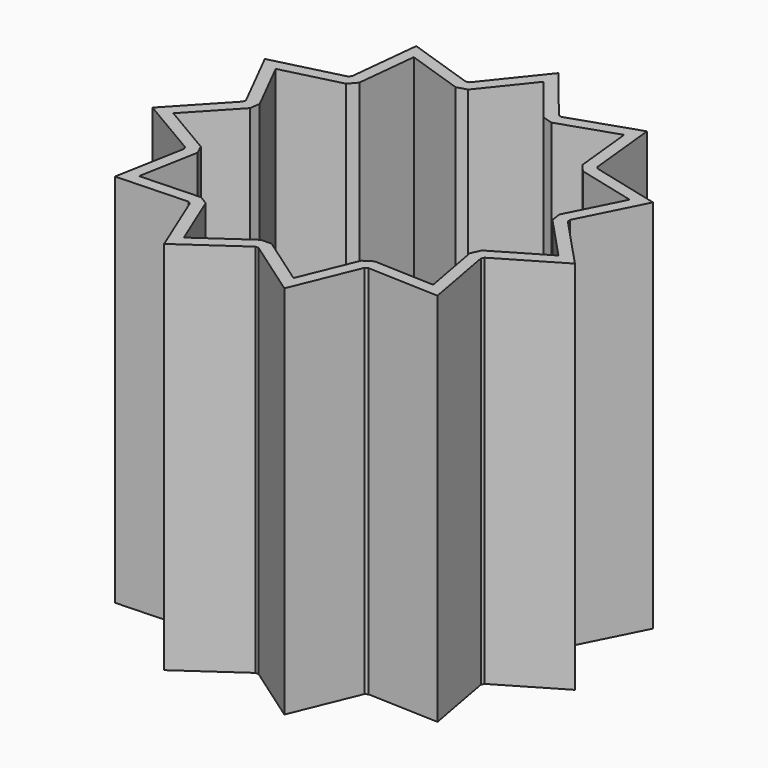
from build123d import *

# Parameters (mm, degrees)
F1_DEPTH = 38.1
F2_T     = -1.1938


with BuildPart() as f1:
    # F0 (on Top) → F1 (new body)
    with BuildSketch(Plane.XY):
        with BuildLine():
            ThreePointArc((15.2011735175, -6.7612197636), (16.2740851173, -3.4559980606), (16.637, 0))
            ThreePointArc((16.637, 0), (16.6002782012, 1.104777192), (16.4902749121, 2.2046773742))
            ThreePointArc((16.4902749121, 2.2046773742), (16.4676593286, 2.3676919644), (16.4434323047, 2.5304748644))
            ThreePointArc((16.4434323047, 2.5304748644), (15.1335475067, 6.9112595713), (12.6805634493, 10.7700083383))
            ThreePointArc((12.6805634493, 10.7700083383), (12.5734056685, 10.8949180306), (12.465017519, 11.0187616024))
            ThreePointArc((12.465017519, 11.0187616024), (8.99464128, 13.9959350257), (4.844862688, 15.9159377523))
            ThreePointArc((4.844862688, 15.9159377523), (4.6871845482, 15.963084602), (4.5290477446, 16.0086693865))
            ThreePointArc((4.5290477446, 16.0086693865), (0, 16.637), (-4.5290477446, 16.0086693865))
            ThreePointArc((-4.5290477446, 16.0086693865), (-4.6871845482, 15.963084602), (-4.844862688, 15.9159377523))
            ThreePointArc((-4.844862688, 15.9159377523), (-8.99464128, 13.9959350257), (-12.465017519, 11.0187616024))
            ThreePointArc((-12.465017519, 11.0187616024), (-12.5734056685, 10.8949180306), (-12.6805634493, 10.7700083383))
            ThreePointArc((-12.6805634493, 10.7700083383), (-15.1335475067, 6.9112595713), (-16.4434323047, 2.5304748644))
            ThreePointArc((-16.4434323047, 2.5304748644), (-16.4676593286, 2.3676919644), (-16.4902749121, 2.2046773742))
            ThreePointArc((-16.4902749121, 2.2046773742), (-16.4676593286, -2.3676919644), (-15.2011735175, -6.7612197636))
            ThreePointArc((-15.2011735175, -6.7612197636), (-15.1335475067, -6.9112595713), (-15.0644406049, -7.0606230788))
            ThreePointArc((-15.0644406049, -7.0606230788), (-12.5734056685, -10.8949180306), (-9.1326495448, -13.9062748891))
            ThreePointArc((-9.1326495448, -13.9062748891), (-8.99464128, -13.9959350257), (-8.855752846, -14.0842255922))
            ThreePointArc((-8.855752846, -14.0842255922), (-4.6871845482, -15.963084602), (-0.1645738698, -16.6361859944))
            ThreePointArc((-0.1645738698, -16.6361859944), (0, -16.637), (0.1645738698, -16.6361859944))
            ThreePointArc((0.1645738698, -16.6361859944), (4.6871845482, -15.963084602), (8.855752846, -14.0842255922))
            ThreePointArc((8.855752846, -14.0842255922), (8.99464128, -13.9959350257), (9.1326495448, -13.9062748891))
            ThreePointArc((9.1326495448, -13.9062748891), (12.5734056685, -10.8949180306), (15.0644406049, -7.0606230788))
            ThreePointArc((15.0644406049, -7.0606230788), (15.1335475067, -6.9112595713), (15.2011735175, -6.7612197636))
        make_face()
        with BuildLine():
            ThreePointArc((16.4902749121, 2.2046773742), (16.6002782012, 1.104777192), (16.637, 0))
            ThreePointArc((16.637, 0), (16.2740851173, -3.4559980606), (15.2011735175, -6.7612197636))
            Line((15.2011735175, -6.7612197636), (21.443474317, -3.0831061546))
            Line((21.443474317, -3.0831061546), (16.4902749121, 2.2046773742))
        make_face()
        with BuildLine():
            ThreePointArc((12.6805634493, 10.7700083383), (15.1335475067, 6.9112595713), (16.4434323047, 2.5304748644))
            Line((16.4434323047, 2.5304748644), (19.7062515571, 8.9995435392))
            Line((19.7062515571, 8.9995435392), (12.6805634493, 10.7700083383))
        make_face()
        with BuildLine():
            Line((16.3725454936, -14.1868914285), (15.0644406049, -7.0606230788))
            ThreePointArc((15.0644406049, -7.0606230788), (12.5734056685, -10.8949180306), (9.1326495448, -13.9062748891))
            Line((9.1326495448, -13.9062748891), (16.3725454936, -14.1868914285))
        make_face()
        with BuildLine():
            ThreePointArc((4.844862688, 15.9159377523), (8.99464128, 13.9959350257), (12.465017519, 11.0187616024))
            Line((12.465017519, 11.0187616024), (11.7124331655, 18.224901747))
            Line((11.7124331655, 18.224901747), (4.844862688, 15.9159377523))
        make_face()
        with BuildLine():
            Line((6.1034491589, -20.7864389136), (8.855752846, -14.0842255922))
            ThreePointArc((8.855752846, -14.0842255922), (4.6871845482, -15.963084602), (0.1645738698, -16.6361859944))
            Line((0.1645738698, -16.6361859944), (6.1034491589, -20.7864389136))
        make_face()
        with BuildLine():
            ThreePointArc((-4.5290477446, 16.0086693865), (0, 16.637), (4.5290477446, 16.0086693865))
            Line((4.5290477446, 16.0086693865), (0, 21.6639824212))
            Line((0, 21.6639824212), (-4.5290477446, 16.0086693865))
        make_face()
        with BuildLine():
            Line((-6.1034491589, -20.7864389136), (-0.1645738698, -16.6361859944))
            ThreePointArc((-0.1645738698, -16.6361859944), (-4.6871845482, -15.963084602), (-8.855752846, -14.0842255922))
            Line((-8.855752846, -14.0842255922), (-6.1034491589, -20.7864389136))
        make_face()
        with BuildLine():
            ThreePointArc((-12.465017519, 11.0187616024), (-8.99464128, 13.9959350257), (-4.844862688, 15.9159377523))
            Line((-4.844862688, 15.9159377523), (-11.7124331655, 18.224901747))
            Line((-11.7124331655, 18.224901747), (-12.465017519, 11.0187616024))
        make_face()
        with BuildLine():
            Line((-16.3725454936, -14.1868914285), (-9.1326495448, -13.9062748891))
            ThreePointArc((-9.1326495448, -13.9062748891), (-12.5734056685, -10.8949180306), (-15.0644406049, -7.0606230788))
            Line((-15.0644406049, -7.0606230788), (-16.3725454936, -14.1868914285))
        make_face()
        with BuildLine():
            ThreePointArc((-16.4434323047, 2.5304748644), (-15.1335475067, 6.9112595713), (-12.6805634493, 10.7700083383))
            Line((-12.6805634493, 10.7700083383), (-19.7062515571, 8.9995435392))
            Line((-19.7062515571, 8.9995435392), (-16.4434323047, 2.5304748644))
        make_face()
        with BuildLine():
            Line((-21.443474317, -3.0831061546), (-15.2011735175, -6.7612197636))
            ThreePointArc((-15.2011735175, -6.7612197636), (-16.4676593286, -2.3676919644), (-16.4902749121, 2.2046773742))
            Line((-16.4902749121, 2.2046773742), (-21.443474317, -3.0831061546))
        make_face()
    extrude(amount=F1_DEPTH)

    # F2
    f2_openings = [f1.faces().sort_by_distance(p)[0] for p in [
        (0, 0, 38.1),
    ]]
    offset(amount=F2_T, openings=f2_openings, kind=Kind.INTERSECTION)

    # F3 (on Front) → F4 (revolve)
    with BuildSketch(Plane.XZ):
        with BuildLine():
            ThreePointArc((14.7743287974, 1.1938), (9.667445255, 10.395125697), (0, 14.5526678004))
            Line((0, 14.5526678004), (0, 1.1938))
            Line((0, 1.1938), (14.7743287974, 1.1938))
        make_face()
    revolve(axis=Axis((0, 0, 19.6469), (0, 0, -1)))


solid = f1.part
